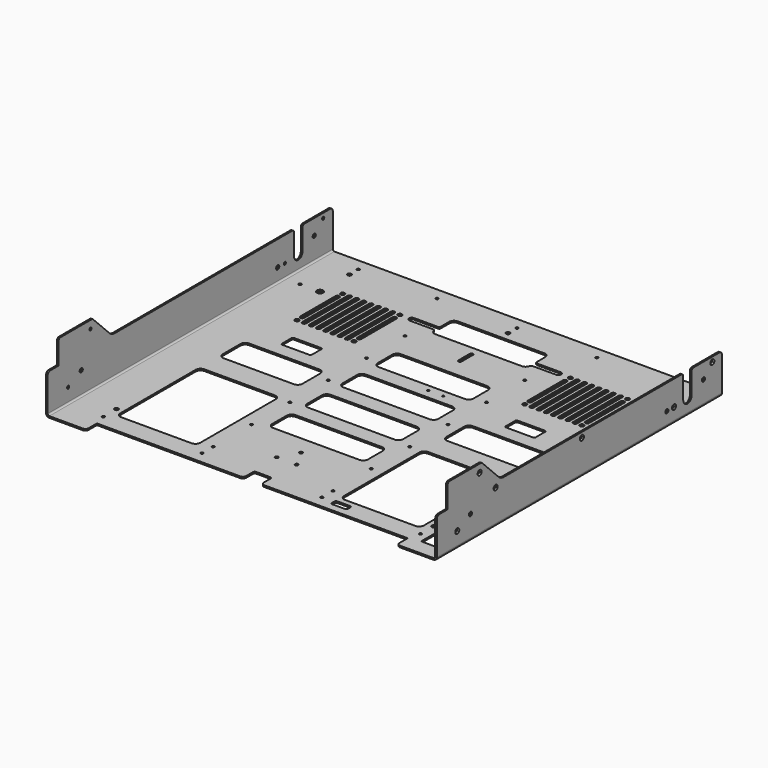
from build123d import *

# Parameters (mm, degrees)
SKETCH_W        = 242.5
SKETCH_H        = 446
PAD_DEPTH       = 2
SKETCH001_W     = 446
SKETCH001_H     = 50
PAD001_DEPTH    = 2
PAD002_DEPTH    = 2
POCKET_DEPTH    = 244.501
SKETCH004_R     = 2.46
SKETCH004_R_2   = 1.7
POCKET001_DEPTH = 244.501
CHAMFER_SIZE    = 1.45
SKETCH005_W     = 100
SKETCH005_H     = 130
SKETCH005_H_2   = 40
SKETCH005_W_2   = 37.5
SKETCH005_H_3   = 18.5
POCKET002_DEPTH = 5
SKETCH006_R     = 2.625
POCKET003_DEPTH = 2.001
SKETCH007_R     = 1.7
SKETCH007_R_2   = 2.46
SKETCH007_R_3   = 4
SKETCH007_R_4   = 1.62
SKETCH007_R_5   = 2
POCKET004_DEPTH = 2.001
CHAMFER001_SIZE = 1.45
FILLET_R        = 2
FILLET001_R     = 4
FILLET002_R     = 4
FILLET003_R     = 3
FILLET004_R     = 12
FILLET005_R     = 3
FILLET006_R     = 3
FILLET007_R     = 4
FILLET008_R     = 4
FILLET009_R     = 4
FILLET010_R     = 2
FILLET011_R     = 6
FILLET012_R     = 2
FILLET013_R     = 6
SKETCH008_R     = 2
SKETCH008_W     = 120
SKETCH008_H     = 35
POCKET005_DEPTH = 80.001
SKETCH009_R     = 1.23
SKETCH009_R_2   = 2.46
SKETCH009_R_3   = 1.7
SKETCH009_W     = 120
SKETCH009_H     = 35
POCKET006_DEPTH = 80.001
CHAMFER002_SIZE = 1.45
FILLET014_R     = 2
FILLET015_R     = 6
SKETCH010_R     = 2
SKETCH010_R_2   = 1.7
SKETCH010_W     = 25.3
SKETCH010_H     = 58.9
SKETCH010_W_2   = 20
SKETCH010_H_2   = 8
POCKET007_DEPTH = 80.001
CHAMFER003_SIZE = 1.45
FILLET016_R     = 2
FILLET017_R     = 1.5
SKETCH011_R     = 1.7
POCKET008_DEPTH = 5
CHAMFER004_SIZE = 1.45


with BuildPart() as fillet013:
    # Sketch → Pad (new body)
    with BuildSketch(Plane.XY):
        with Locations((-121.25, 82.567846)):
            Rectangle(SKETCH_W, SKETCH_H)
    extrude(amount=PAD_DEPTH)

    # Sketch001 → Pad001 (new body)
    with BuildSketch(Plane(origin=(-242.5, 0, 0), x_dir=(0, -1, 0), z_dir=(-1, 0, 0))):
        with Locations((-82.567846, 25)):
            Rectangle(SKETCH001_W, SKETCH001_H)
    extrude(amount=PAD001_DEPTH)

    # Sketch002 → Pad002 (new body)
    with BuildSketch(Plane(origin=(-244.5, 0, 0), x_dir=(0, -1, 0), z_dir=(-1, 0, 0))):
        Polygon((70.382154, 80), (123.432154, 80), (123.432154, 50), (40.382154, 50), align=None)
    extrude(amount=-PAD002_DEPTH)

    # Sketch003 → Pocket (cut, through all)
    with BuildSketch(Plane(origin=(-244.5, 0, 0), x_dir=(0, -1, 0), z_dir=(-1, 0, 0))):
        with BuildLine():
            Line((-258.067846, 50), (-258.067846, 20.5))
            ThreePointArc((-258.067846, 20.5), (-251.567847, 14), (-245.067846, 20.499998))
            Line((-245.067846, 50), (-245.067846, 20.499998))
            Line((-258.067846, 50), (-245.067846, 50))
        make_face()
    extrude(amount=-POCKET_DEPTH, mode=Mode.SUBTRACT)

    # Sketch004 → Pocket001 (cut, through all)
    with BuildSketch(Plane(origin=(-244.5, 0, 0), x_dir=(0, -1, 0), z_dir=(-1, 0, 0))):
        with Locations((87.932154, 30.5)):
            Circle(SKETCH004_R)
        with Locations((108.432154, 20)):
            Circle(SKETCH004_R_2)
        with Locations((73.432154, 70)):
            Circle(SKETCH004_R_2)
        with Locations((-290.567846, 43.958664)):
            Circle(SKETCH004_R_2)
        with Locations((-276.567846, 30.5)):
            Circle(SKETCH004_R)
        with Locations((-219.417846, 18.8)):
            Circle(SKETCH004_R)
        with Locations((-230.567846, 18.8)):
            Circle(SKETCH004_R_2)
    extrude(amount=-POCKET001_DEPTH, mode=Mode.SUBTRACT)

    # Chamfer
    chamfer_edges = [fillet013.edges().sort_by_distance(p)[0] for p in [
        (-244.5, 232.267846, 18.8),
        (-244.5, 292.267846, 43.958664),
        (-244.5, -106.732154, 20),
        (-244.5, -71.732154, 70),
    ]]
    chamfer(chamfer_edges, length=CHAMFER_SIZE)

    # Sketch005 → Pocket002 (cut)
    with BuildSketch(Plane.XY.offset(2)):
        Polygon((-194.5, -123.432154), (-11, -123.432154), (-11, -106.432154), (0, -106.432154), (0, -140.432154), (-194.5, -140.432154), align=None)
        with Locations((-140, -33.432154)):
            Rectangle(SKETCH005_W, SKETCH005_H)
        with Locations((-140, 81.567846)):
            Rectangle(SKETCH005_W, SKETCH005_H_2)
        with Locations((-140, 128.817846)):
            Rectangle(SKETCH005_W_2, SKETCH005_H_3)
    extrude(amount=-POCKET002_DEPTH, mode=Mode.SUBTRACT)

    # Sketch006 → Pocket003 (cut, through all)
    with BuildSketch(Plane.XY.offset(2)):
        with Locations((-178.25, 240.817846)):
            Circle(SKETCH006_R)
        with Locations((-178.25, 169.317846)):
            Circle(SKETCH006_R)
        with Locations((-106.75, 240.817846)):
            Circle(SKETCH006_R)
        with Locations((-106.75, 169.317846)):
            Circle(SKETCH006_R)
        with BuildLine():
            Line((-167, 240.567846), (-167, 169.567846))
            ThreePointArc((-172, 169.567846), (-169.5, 167.067846), (-167, 169.567846))
            Line((-172, 169.567846), (-172, 240.567846))
            ThreePointArc((-167, 240.567846), (-169.5, 243.067846), (-172, 240.567846))
        make_face()
        with BuildLine():
            Line((-158, 240.567846), (-158, 169.567846))
            ThreePointArc((-163, 169.567846), (-160.5, 167.067846), (-158, 169.567846))
            Line((-163, 169.567846), (-163, 240.567846))
            ThreePointArc((-158, 240.567846), (-160.5, 243.067846), (-163, 240.567846))
        make_face()
        with BuildLine():
            Line((-149, 240.567846), (-149, 169.567846))
            ThreePointArc((-154, 169.567846), (-151.5, 167.067846), (-149, 169.567846))
            Line((-154, 169.567846), (-154, 240.567846))
            ThreePointArc((-149, 240.567846), (-151.5, 243.067846), (-154, 240.567846))
        make_face()
        with BuildLine():
            Line((-140, 240.567846), (-140, 169.567846))
            ThreePointArc((-145, 169.567846), (-142.5, 167.067846), (-140, 169.567846))
            Line((-145, 169.567846), (-145, 240.567846))
            ThreePointArc((-140, 240.567846), (-142.5, 243.067846), (-145, 240.567846))
        make_face()
        with BuildLine():
            Line((-131, 240.567846), (-131, 169.567846))
            ThreePointArc((-136, 169.567846), (-133.5, 167.067846), (-131, 169.567846))
            Line((-136, 169.567846), (-136, 240.567846))
            ThreePointArc((-131, 240.567846), (-133.5, 243.067846), (-136, 240.567846))
        make_face()
        with BuildLine():
            Line((-122, 240.567846), (-122, 169.567846))
            ThreePointArc((-127, 169.567846), (-124.5, 167.067846), (-122, 169.567846))
            Line((-127, 169.567846), (-127, 240.567846))
            ThreePointArc((-122, 240.567846), (-124.5, 243.067846), (-127, 240.567846))
        make_face()
        with BuildLine():
            Line((-113, 240.567846), (-113, 169.567846))
            ThreePointArc((-118, 169.567846), (-115.5, 167.067846), (-113, 169.567846))
            Line((-118, 169.567846), (-118, 240.567846))
            ThreePointArc((-113, 240.567846), (-115.5, 243.067846), (-118, 240.567846))
        make_face()
        with BuildLine():
            Line((-175.75, 232.567846), (-175.75, 177.567846))
            ThreePointArc((-180.75, 177.567846), (-178.25, 175.067846), (-175.75, 177.567846))
            Line((-180.75, 177.567846), (-180.75, 232.567846))
            ThreePointArc((-175.75, 232.567846), (-178.25, 235.067846), (-180.75, 232.567846))
        make_face()
        with BuildLine():
            Line((-104.25, 232.567846), (-104.25, 177.567846))
            ThreePointArc((-109.25, 177.567846), (-106.75, 175.067846), (-104.25, 177.567846))
            Line((-109.25, 177.567846), (-109.25, 232.567846))
            ThreePointArc((-104.25, 232.567846), (-106.75, 235.067846), (-109.25, 232.567846))
        make_face()
    extrude(amount=-POCKET003_DEPTH, mode=Mode.SUBTRACT)

    # Sketch007 → Pocket004 (cut, through all)
    with BuildSketch(Plane.XY.offset(2)):
        with Locations((-198.5, 290.567846)):
            Circle(SKETCH007_R)
        with Locations((-198.5, 276.567846)):
            Circle(SKETCH007_R_2)
        with Locations((-198.5, 230.567846)):
            Circle(SKETCH007_R_3)
        with Locations((-223.5, 230.567846)):
            Circle(SKETCH007_R)
        with Locations((-198.5, -87.932154)):
            Circle(SKETCH007_R_2)
        with Locations((-198.5, -108.432154)):
            Circle(SKETCH007_R)
        with Locations((-75, -108.432154)):
            Circle(SKETCH007_R)
        with Locations((-75, -90.932154)):
            Circle(SKETCH007_R_4)
        with Locations((-75, -30.932154)):
            Circle(SKETCH007_R_4)
        with Locations((-75, 29.067846)):
            Circle(SKETCH007_R_4)
        with Locations((-75, 89.067846)):
            Circle(SKETCH007_R_4)
        with Locations((-75, 149.067846)):
            Circle(SKETCH007_R_4)
        with Locations((-75, 209.067846)):
            Circle(SKETCH007_R_4)
        with Locations((-100, 290.567846)):
            Circle(SKETCH007_R)
        with Locations((-12.5, -69.682154)):
            Circle(SKETCH007_R_5)
    extrude(amount=-POCKET004_DEPTH, mode=Mode.SUBTRACT)

    # Chamfer001
    chamfer001_edges = [fillet013.edges().sort_by_distance(p)[0] for p in [
        (-76.7, -108.432154, 0),
        (-200.2, -108.432154, 0),
        (-225.2, 230.567846, 0),
        (-200.2, 290.567846, 0),
        (-101.7, 290.567846, 0),
    ]]
    chamfer(chamfer001_edges, length=CHAMFER001_SIZE)

    # Fillet
    fillet_edges = [fillet013.edges().sort_by_distance(p)[0] for p in [
        (-242.5, 82.567846, 2),
    ]]
    fillet(fillet_edges, radius=FILLET_R)

    # Fillet001
    fillet001_edges = [fillet013.edges().sort_by_distance(p)[0] for p in [
        (-244.5, 82.567846, 0),
    ]]
    fillet(fillet001_edges, radius=FILLET001_R)

    # Fillet002
    fillet002_edges = [fillet013.edges().sort_by_distance(p)[0] for p in [
        (-243.5, 305.567846, 50),
    ]]
    fillet(fillet002_edges, radius=FILLET002_R)

    # Fillet003
    fillet003_edges = [fillet013.edges().sort_by_distance(p)[0] for p in [
        (-243.5, 245.067846, 50),
        (-243.5, 258.067846, 50),
    ]]
    fillet(fillet003_edges, radius=FILLET003_R)

    # Fillet004
    fillet004_edges = [fillet013.edges().sort_by_distance(p)[0] for p in [
        (-243.5, -40.382154, 50),
    ]]
    fillet(fillet004_edges, radius=FILLET004_R)

    # Fillet005
    fillet005_edges = [fillet013.edges().sort_by_distance(p)[0] for p in [
        (-243.5, -70.382154, 80),
    ]]
    fillet(fillet005_edges, radius=FILLET005_R)

    # Fillet006
    fillet006_edges = [fillet013.edges().sort_by_distance(p)[0] for p in [
        (-243.5, -123.432154, 80),
    ]]
    fillet(fillet006_edges, radius=FILLET006_R)

    # Fillet007
    fillet007_edges = [fillet013.edges().sort_by_distance(p)[0] for p in [
        (-243.5, -140.432154, 50),
    ]]
    fillet(fillet007_edges, radius=FILLET007_R)

    # Fillet008
    fillet008_edges = [fillet013.edges().sort_by_distance(p)[0] for p in [
        (-194.5, -140.432154, 1),
    ]]
    fillet(fillet008_edges, radius=FILLET008_R)

    # Fillet009
    fillet009_edges = [fillet013.edges().sort_by_distance(p)[0] for p in [
        (-11, -123.432154, 1),
    ]]
    fillet(fillet009_edges, radius=FILLET009_R)

    # Fillet010
    fillet010_edges = [fillet013.edges().sort_by_distance(p)[0] for p in [
        (-11, -106.432154, 1),
    ]]
    fillet(fillet010_edges, radius=FILLET010_R)

    # Fillet011
    fillet011_edges = [fillet013.edges().sort_by_distance(p)[0] for p in [
        (-90, -98.432154, 1),
        (-190, -98.432154, 1),
        (-190, 31.567846, 1),
        (-90, 31.567846, 1),
    ]]
    fillet(fillet011_edges, radius=FILLET011_R)

    # Fillet012
    fillet012_edges = [fillet013.edges().sort_by_distance(p)[0] for p in [
        (-121.25, 138.067846, 1),
        (-158.75, 138.067846, 1),
        (-158.75, 119.567846, 1),
        (-121.25, 119.567846, 1),
    ]]
    fillet(fillet012_edges, radius=FILLET012_R)

    # Fillet013
    fillet013_edges = [fillet013.edges().sort_by_distance(p)[0] for p in [
        (-90, 101.567846, 1),
        (-190, 101.567846, 1),
        (-190, 61.567846, 1),
        (-90, 61.567846, 1),
    ]]
    fillet(fillet013_edges, radius=FILLET013_R)


with BuildPart() as chamfer004:
    # Part__Mirroring: instance of Fillet013
    add(fillet013.part.mirror(Plane(origin=(0, 0, 0), x_dir=(0, -1, 0), z_dir=(1, 0, 0))))

    # Fusion: union Fillet013
    add(fillet013.part)

    # Sketch008 → Pocket005 (cut, through all)
    with BuildSketch(Plane(origin=(0, 0, 0), x_dir=(1, 0, 0), z_dir=(0, 0, -1))):
        with Locations((0, 47.182154)):
            Circle(SKETCH008_R)
        with Locations((0, 5.932154)):
            Rectangle(SKETCH008_W, SKETCH008_H)
    extrude(amount=-POCKET005_DEPTH, mode=Mode.SUBTRACT)

    # Sketch009 → Pocket006 (cut, through all)
    with BuildSketch(Plane(origin=(0, 0, 0), x_dir=(1, 0, 0), z_dir=(0, 0, -1))):
        with Locations((15, -133.067846)):
            Circle(SKETCH009_R)
        with Locations((33.75, -133.067846)):
            Circle(SKETCH009_R)
        with Locations((0, -276.567846)):
            Circle(SKETCH009_R_2)
        with Locations((0, -290.567846)):
            Circle(SKETCH009_R_3)
        with Locations((0, -49.067846)):
            Rectangle(SKETCH009_W, SKETCH009_H)
        with Locations((0, -104.067846)):
            Rectangle(SKETCH009_W, SKETCH009_H)
        with Locations((0, -159.067846)):
            Rectangle(SKETCH009_W, SKETCH009_H)
        with BuildLine():
            Line((-60, -230.567846), (60, -230.567846))
            Line((60, -230.567846), (60, -237.317846))
            Line((60, -237.317846), (91.75, -237.317846))
            ThreePointArc((91.75, -244.317846), (95.25, -240.817846), (91.75, -237.317846))
            Line((91.75, -244.317846), (60, -244.317846))
            Line((60, -244.317846), (60, -265.567846))
            Line((60, -265.567846), (-60, -265.567846))
            Line((-60, -244.317846), (-60, -265.567846))
            Line((-91.75, -244.317846), (-60, -244.317846))
            ThreePointArc((-91.75, -237.317846), (-95.25, -240.817846), (-91.75, -244.317846))
            Line((-60, -237.317846), (-91.75, -237.317846))
            Line((-60, -237.317846), (-60, -230.567846))
        make_face()
        with BuildLine():
            Line((2, -201.367846), (2, -219.367846))
            ThreePointArc((-2, -219.367846), (0, -221.367846), (2, -219.367846))
            Line((-2, -219.367846), (-2, -201.367846))
            ThreePointArc((2, -201.367846), (0, -199.367846), (-2, -201.367846))
        make_face()
    extrude(amount=-POCKET006_DEPTH, mode=Mode.SUBTRACT)

    # Chamfer002
    chamfer002_edges = [chamfer004.edges().sort_by_distance(p)[0] for p in [
        (-1.7, 290.567846, 0),
    ]]
    chamfer(chamfer002_edges, length=CHAMFER002_SIZE)

    # Fillet014
    fillet014_edges = [chamfer004.edges().sort_by_distance(p)[0] for p in [
        (-60, 237.317846, 1),
        (-60, 244.317846, 1),
        (60, 237.317846, 1),
        (60, 244.317846, 1),
    ]]
    fillet(fillet014_edges, radius=FILLET014_R)

    # Fillet015
    fillet015_edges = [chamfer004.edges().sort_by_distance(p)[0] for p in [
        (60, 230.567846, 1),
        (60, 265.567846, 1),
        (-60, 265.567846, 1),
        (-60, 230.567846, 1),
        (-60, 141.567846, 1),
        (-60, 176.567846, 1),
        (60, 176.567846, 1),
        (60, 141.567846, 1),
        (60, 86.567846, 1),
        (-60, 86.567846, 1),
        (-60, 121.567846, 1),
        (60, 121.567846, 1),
        (60, 66.567846, 1),
        (60, 11.567846, 1),
        (60, 31.567846, 1),
        (60, -23.432154, 1),
        (-60, -23.432154, 1),
        (-60, 31.567846, 1),
        (-60, 11.567846, 1),
        (-60, 66.567846, 1),
    ]]
    fillet(fillet015_edges, radius=FILLET015_R)

    # Sketch010 → Pocket007 (cut, through all)
    with BuildSketch(Plane(origin=(0, 0, 0), x_dir=(1, 0, 0), z_dir=(0, 0, -1))):
        with Locations((198.5, -203.067846)):
            Circle(SKETCH010_R)
        with Locations((198.5, -173.067846)):
            Circle(SKETCH010_R)
        with Locations((221.5, 54.032154)):
            Circle(SKETCH010_R_2)
        with BuildLine():
            Line((231, -138.067846), (231, -145.567846))
            ThreePointArc((227, -145.567846), (229, -147.567846), (231, -145.567846))
            Line((227, -145.567846), (227, -138.067846))
            ThreePointArc((231, -138.067846), (229, -136.067846), (227, -138.067846))
        make_face()
        with BuildLine():
            Line((231, -113.067846), (231, -120.567846))
            ThreePointArc((227, -120.567846), (229, -122.567846), (231, -120.567846))
            Line((227, -120.567846), (227, -113.067846))
            ThreePointArc((231, -113.067846), (229, -111.067846), (227, -113.067846))
        make_face()
        with Locations((221.5, 90.982154)):
            Rectangle(SKETCH010_W, SKETCH010_H)
        with Locations((100, 109.432154)):
            Rectangle(SKETCH010_W_2, SKETCH010_H_2)
    extrude(amount=-POCKET007_DEPTH, mode=Mode.SUBTRACT)

    # Chamfer003
    chamfer003_edges = [chamfer004.edges().sort_by_distance(p)[0] for p in [
        (219.8, -54.032154, 0),
    ]]
    chamfer(chamfer003_edges, length=CHAMFER003_SIZE)

    # Fillet016
    fillet016_edges = [chamfer004.edges().sort_by_distance(p)[0] for p in [
        (110, -105.432154, 1),
        (110, -113.432154, 1),
        (90, -113.432154, 1),
        (90, -105.432154, 1),
    ]]
    fillet(fillet016_edges, radius=FILLET016_R)

    # Fillet017
    fillet017_edges = [chamfer004.edges().sort_by_distance(p)[0] for p in [
        (234.15, -61.532154, 1),
        (234.15, -120.432154, 1),
        (208.85, -120.432154, 1),
        (208.85, -61.532154, 1),
    ]]
    fillet(fillet017_edges, radius=FILLET017_R)

    # Sketch011 → Pocket008 (cut)
    with BuildSketch(Plane.YZ.offset(244.5)):
        with Locations((-48.432154, 43.5)):
            Circle(SKETCH011_R)
        with Locations((86.567846, 43.5)):
            Circle(SKETCH011_R)
    extrude(amount=-POCKET008_DEPTH, mode=Mode.SUBTRACT)

    # Chamfer004
    chamfer004_edges = [chamfer004.edges().sort_by_distance(p)[0] for p in [
        (244.5, -50.132154, 43.5),
        (244.5, 84.867846, 43.5),
    ]]
    chamfer(chamfer004_edges, length=CHAMFER004_SIZE)


solid = chamfer004.part
